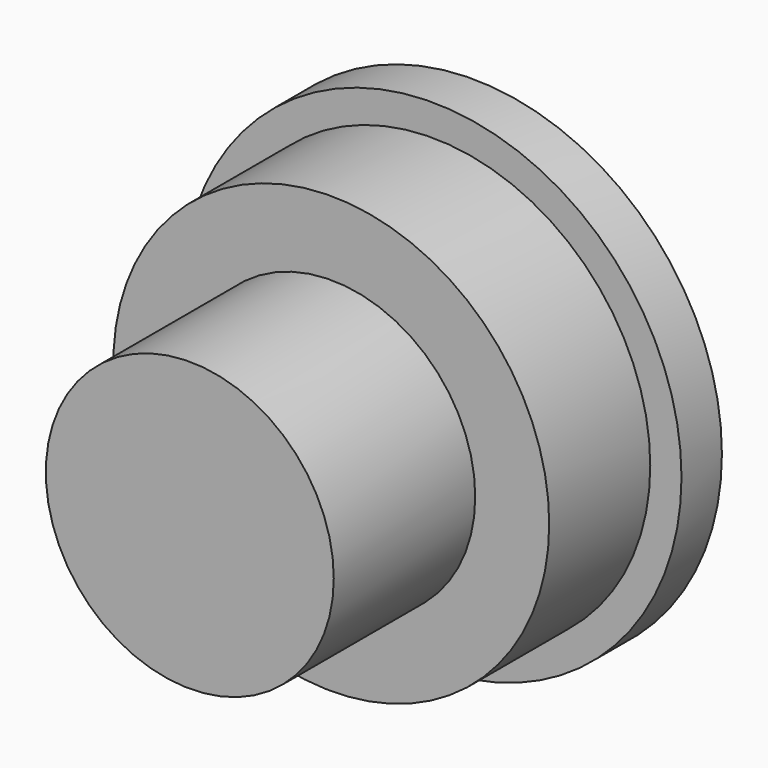
from build123d import *

# Parameters (mm, degrees)
F0_R     = 49.325
F1_DEPTH = 35
F2_R     = 50.949496
F2_R_2   = 43.141888
F3_DEPTH = 25
F4_R     = 28.5
F5_DEPTH = 35


with BuildPart() as f1:
    # F0 (on Front) → F1 (new body)
    with BuildSketch(Plane.XZ):
        Circle(F0_R)
    extrude(amount=F1_DEPTH)

    # F2 (on face) → F3 (cut)
    with BuildSketch(Plane.XZ.offset(35)):
        Circle(F2_R)
        Circle(F2_R_2, mode=Mode.SUBTRACT)
    extrude(amount=-F3_DEPTH, mode=Mode.SUBTRACT)

    # F4 (on face) → F5 (join)
    with BuildSketch(Plane.XZ.offset(35)):
        Circle(F4_R)
    extrude(amount=F5_DEPTH)


solid = f1.part
